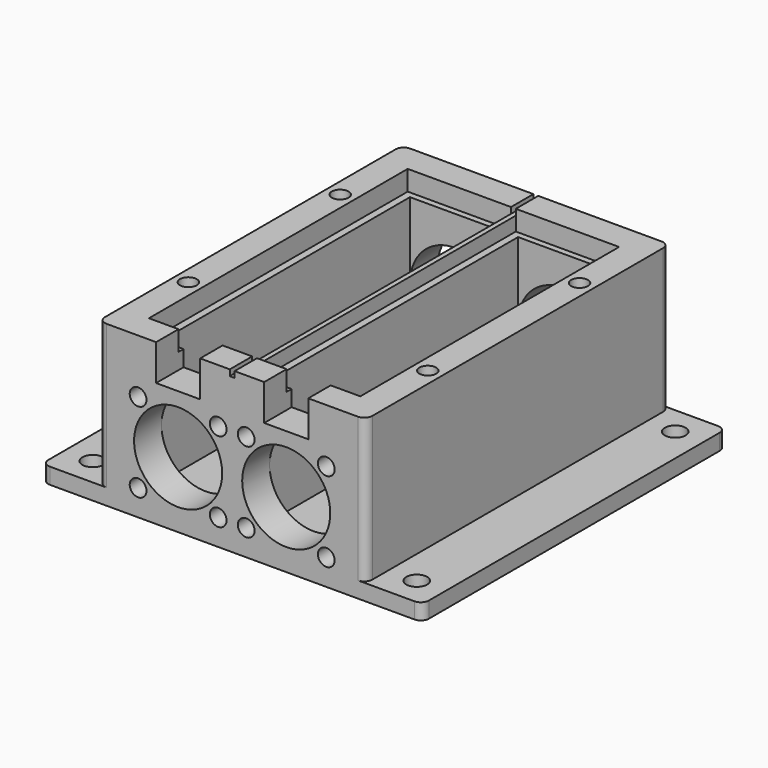
from build123d import *

# Parameters (mm, degrees)
PAD_DEPTH                     = 40
PAD001_DEPTH                  = 4
SKETCH002_W                   = 1.2
SKETCH002_H                   = 94.8
POCKET001_DEPTH               = 1.5
SKETCH003_W                   = 25.8
SKETCH003_H                   = 80.8
POCKET_DEPTH                  = 5
SKETCH004_W                   = 22.2
SKETCH004_H                   = 77.7
POCKET002_DEPTH               = 31
SKETCH005_R                   = 2.0955
POCKET003_DEPTH               = 7
SKETCH006_R                   = 11
POCKET004_DEPTH               = 374.955376
SKETCH010_W                   = 11
SKETCH010_H                   = 8.55
POCKET007_DEPTH               = 9
SKETCH009_R                   = 2.6035
POCKET006_DEPTH               = 40.001
SKETCH008_R                   = 2.0955
POCKET005_DEPTH               = 7
SKETCH008_MIRRORED004_2_R     = 2.0955
POCKET005_MIRRORED004_2_DEPTH = 7


with BuildPart() as part:
    # Sketch → Pad (new body)
    with BuildSketch(Plane.XY):
        with BuildLine():
            Line((-33.4, 45.4), (-33.4, -45.4))
            ThreePointArc((-33.4, -45.4), (-32.814214, -46.814214), (-31.4, -47.4))
            Line((-31.4, -47.4), (31.4, -47.4))
            ThreePointArc((31.4, -47.4), (32.814214, -46.814214), (33.4, -45.4))
            Line((33.4, -45.4), (33.4, 45.4))
            ThreePointArc((33.4, 45.4), (32.814214, 46.814214), (31.4, 47.4))
            Line((31.4, 47.4), (-31.4, 47.4))
            ThreePointArc((-31.4, 47.4), (-32.814214, 46.814214), (-33.4, 45.4))
        make_face()
    extrude(amount=PAD_DEPTH)

    # Sketch007 → Pad001 (join)
    with BuildSketch(Plane.XY):
        with BuildLine():
            Line((-47.5252, 45.4), (-47.5252, -45.4))
            ThreePointArc((-47.5252, -45.4), (-46.939414, -46.814214), (-45.5252, -47.4))
            Line((-45.5252, -47.4), (45.5252, -47.4))
            ThreePointArc((45.5252, -47.4), (46.939414, -46.814214), (47.5252, -45.4))
            Line((47.5252, -45.4), (47.5252, 45.4))
            ThreePointArc((47.5252, 45.4), (46.939414, 46.814214), (45.5252, 47.4))
            Line((45.5252, 47.4), (-45.5252, 47.4))
            ThreePointArc((-45.5252, 47.4), (-46.939414, 46.814214), (-47.5252, 45.4))
        make_face()
    extrude(amount=PAD001_DEPTH)

    # Sketch002 (on DatumPlane) → Pocket001 (cut)
    with BuildSketch(Plane.XY.offset(40)):
        Rectangle(SKETCH002_W, SKETCH002_H)
    extrude(amount=-POCKET001_DEPTH, mode=Mode.SUBTRACT)

    # Sketch003 (on DatumPlane) → Pocket (cut)
    with BuildSketch(Plane.XY.offset(40)):
        with Locations((-13.5, 0)):
            Rectangle(SKETCH003_W, SKETCH003_H)
    pocket = extrude(amount=-POCKET_DEPTH, mode=Mode.SUBTRACT)

    # Mirrored: Pocket across Sketch003 V_Axis
    add(pocket.mirror(Plane(origin=(0, 0, 40), x_dir=(0, 0, 1), z_dir=(1, 0, 0))), mode=Mode.SUBTRACT)

    # Sketch004 (on DatumPlane) → Pocket002 (cut)
    with BuildSketch(Plane.XY.offset(35)):
        with Locations((-13.5, 0)):
            Rectangle(SKETCH004_W, SKETCH004_H)
    pocket002 = extrude(amount=-POCKET002_DEPTH, mode=Mode.SUBTRACT)

    # Mirrored001: Pocket002 across Sketch004 V_Axis
    add(pocket002.mirror(Plane(origin=(0, 0, 35), x_dir=(0, 0, 1), z_dir=(1, 0, 0))), mode=Mode.SUBTRACT)

    # Sketch005 (on DatumPlane) → Pocket003 (cut)
    with BuildSketch(Plane.XZ.offset(47.4)):
        with Locations((-23.5, 26.5)):
            Circle(SKETCH005_R)
        with Locations((-3.5, 26.5)):
            Circle(SKETCH005_R)
        with Locations((-23.5, 6.5)):
            Circle(SKETCH005_R)
        with Locations((-3.5, 6.5)):
            Circle(SKETCH005_R)
    pocket003 = extrude(amount=-POCKET003_DEPTH, mode=Mode.SUBTRACT)

    # Mirrored002: Pocket003 across Sketch005 V_Axis
    add(pocket003.mirror(Plane(origin=(0, -47.4, 0), x_dir=(0, -1, 0), z_dir=(1, 0, 0))), mode=Mode.SUBTRACT)

    # Sketch006 (on DatumPlane) → Pocket004 (cut, through all)
    with BuildSketch(Plane.XZ.offset(47.4)):
        with Locations((-13.5, 16.5)):
            Circle(SKETCH006_R)
    pocket004 = extrude(amount=-POCKET004_DEPTH, mode=Mode.SUBTRACT)

    # Mirrored003: Pocket004 across Sketch006 V_Axis
    add(pocket004.mirror(Plane(origin=(0, -47.4, 0), x_dir=(0, -1, 0), z_dir=(1, 0, 0))), mode=Mode.SUBTRACT)

    # Sketch010 (on DatumPlane) → Pocket007 (cut)
    with BuildSketch(Plane.XY.offset(40)):
        with Locations((-13.5, -43.125)):
            Rectangle(SKETCH010_W, SKETCH010_H)
    pocket007 = extrude(amount=-POCKET007_DEPTH, mode=Mode.SUBTRACT)

    # Mirrored006: Pocket007 across Sketch010 V_Axis
    add(pocket007.mirror(Plane(origin=(0, 0, 40), x_dir=(0, 0, 1), z_dir=(1, 0, 0))), mode=Mode.SUBTRACT)

    # Sketch009 → Pocket006 (cut, through all)
    with BuildSketch(Plane.XY):
        with Locations((-40.4626, 40.3374)):
            Circle(SKETCH009_R)
        with Locations((40.4626, 40.3374)):
            Circle(SKETCH009_R)
        with Locations((-40.4626, -40.3374)):
            Circle(SKETCH009_R)
        with Locations((40.4626, -40.3374)):
            Circle(SKETCH009_R)
    extrude(amount=POCKET006_DEPTH, mode=Mode.SUBTRACT)

    # Sketch008 (on DatumPlane) → Pocket005 (cut)
    with BuildSketch(Plane.XY.offset(40)):
        with Locations((-29.9, 23.7)):
            Circle(SKETCH008_R)
    pocket005 = extrude(amount=-POCKET005_DEPTH, mode=Mode.SUBTRACT)

    # Sketch008 Mirrored004 2 → Pocket005 Mirrored004 2 (cut)
    with BuildSketch(Plane(origin=(0, 0, 40), x_dir=(-1, 0, 0), z_dir=(0, 0, -1))):
        with Locations((-29.9, 23.7)):
            Circle(SKETCH008_MIRRORED004_2_R)
    pocket005_mirrored004_2 = extrude(amount=POCKET005_MIRRORED004_2_DEPTH, mode=Mode.SUBTRACT)

    # Mirrored005: Pocket005, Pocket005 Mirrored004 2 across XZ
    add(pocket005.mirror(Plane.XZ), mode=Mode.SUBTRACT)
    add(pocket005_mirrored004_2.mirror(Plane.XZ), mode=Mode.SUBTRACT)


solid = part.part
